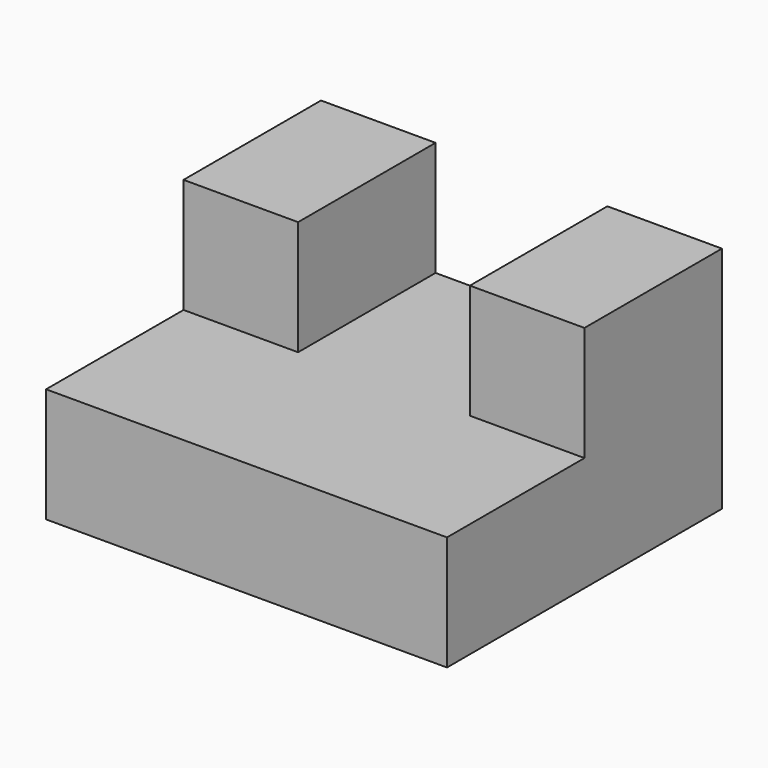
from build123d import *

# Parameters (mm, degrees)
F0_W     = 88.9
F0_H     = 25.4
F1_DEPTH = 76.2
F2_W     = 25.4
F2_H     = 38.1
F3_DEPTH = 25.4


with BuildPart() as f1:
    # F0 (on Front) → F1 (new body)
    with BuildSketch(Plane.XZ):
        with Locations((-5.390747, -42.342341)):
            Rectangle(F0_W, F0_H)
    extrude(amount=F1_DEPTH)

    # F2 (on face) → F3 (join)
    with BuildSketch(Plane.XY.offset(-29.642341)):
        with Locations((26.359253, -19.05)):
            Rectangle(F2_W, F2_H)
        with Locations((-37.140747, -19.05)):
            Rectangle(F2_W, F2_H)
    extrude(amount=F3_DEPTH)


solid = f1.part
